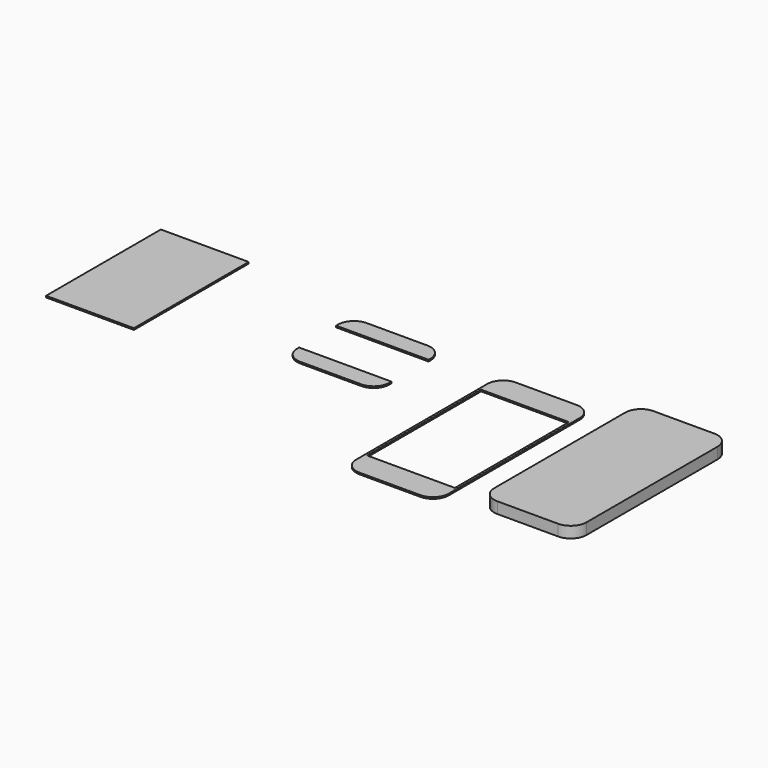
from build123d import *

# Parameters (mm, degrees)
F0_W      = 58.57
F0_H      = 123.83
F1_DEPTH  = 7.11
F2_R      = 10
F3_W      = 1.44
F3_H      = 90.39
F4_DEPTH  = 1
F5_R      = 10
F6_W      = 58.57
F6_H      = 11.6
F7_DEPTH  = 1
F8_R      = 10
F9_W      = 55.69
F9_H      = 90.97
F10_DEPTH = 1


with BuildPart() as f1:
    # F0 (on Top) → F1 (new body)
    with BuildSketch(Plane.XY):
        Rectangle(F0_W, F0_H)
    extrude(amount=F1_DEPTH)

    # F2
    f2_edges = [f1.edges().sort_by_distance(p)[0] for p in [
        (29.285, -61.915, 3.555),
        (-29.285, -61.915, 3.555),
        (29.285, 61.915, 3.555),
        (-29.285, 61.915, 3.555),
    ]]
    fillet(f2_edges, radius=F2_R)


with BuildPart() as f4:
    # F3 (on Top) → F4 (new body)
    with BuildSketch(Plane.XY):
        Polygon((-50.535517, 52.450562), (-109.105517, 52.450562), (-109.105517, 35.730562), (-107.665517, 35.730562), (-51.975517, 35.730562), (-50.535517, 35.730562), align=None)
        with Locations((-108.385517, -9.464438)):
            Rectangle(F3_W, F3_H)
        with Locations((-51.255517, -9.464438)):
            Rectangle(F3_W, F3_H)
        Polygon((-107.665517, -54.659438), (-109.105517, -54.659438), (-109.105517, -71.379438), (-50.535517, -71.379438), (-50.535517, -54.659438), (-51.975517, -54.659438), align=None)
    extrude(amount=F4_DEPTH)

    # F5
    f5_edges = [f4.edges().sort_by_distance(p)[0] for p in [
        (-109.105517, 52.450562, 0.5),
        (-109.105517, -71.379438, 0.5),
        (-50.535517, -71.379438, 0.5),
        (-50.535517, 52.450562, 0.5),
    ]]
    fillet(f5_edges, radius=F5_R)


with BuildPart() as f7:
    # F6 (on Top) → F7 (new body)
    with BuildSketch(Plane.XY):
        with Locations((-177.294545, 50.287862)):
            Rectangle(F6_W, F6_H)
        with Locations((-176.992626, 8.926573)):
            Rectangle(F6_W, F6_H)
    extrude(amount=F7_DEPTH)

    # F8
    f8_edges = [f7.edges().sort_by_distance(p)[0] for p in [
        (-148.009545, 56.087862, 0.5),
        (-206.579545, 56.087862, 0.5),
        (-206.277626, 3.126573, 0.5),
        (-147.707626, 3.126573, 0.5),
    ]]
    fillet(f8_edges, radius=F8_R)


with BuildPart() as f10:
    # F9 (on Top) → F10 (new body)
    with BuildSketch(Plane.XY):
        with Locations((-310.950011, 25.289991)):
            Rectangle(F9_W, F9_H)
    extrude(amount=F10_DEPTH)


solid = Compound([f1.part, f4.part, f7.part, f10.part])
